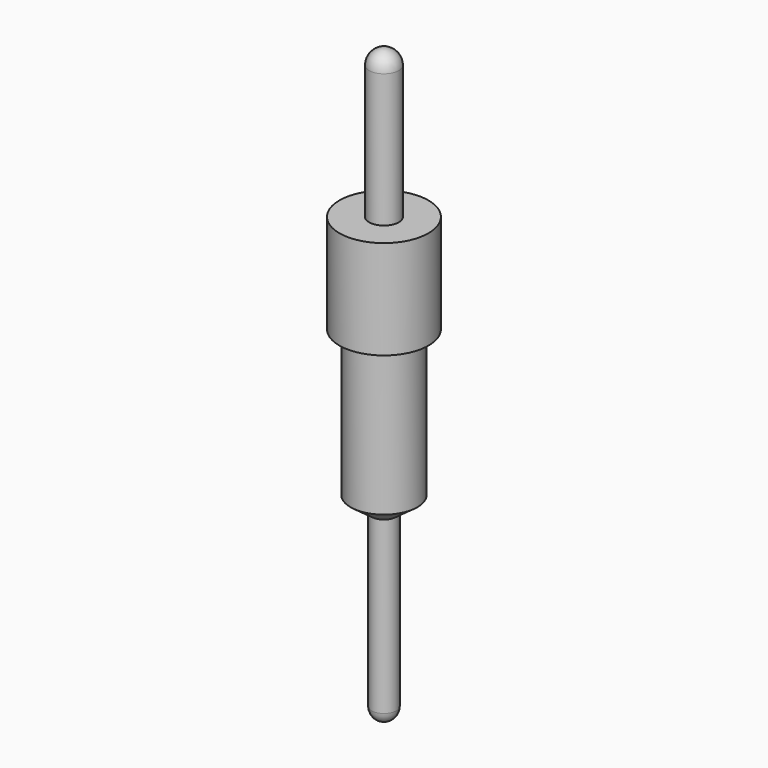
from build123d import *


with BuildPart() as part:
    # Sketch → Revolution (revolve)
    with BuildSketch(Plane.XZ):
        with BuildLine():
            Line((0, 8.26), (0, -3.7))
            ThreePointArc((-0.25, -3.45), (-0.176777, -3.626777), (0, -3.7))
            Line((-0.25, 0), (-0.25, -3.45))
            Line((-0.675, 0.31), (-0.25, 0))
            Line((-0.675, 3.26), (-0.675, 0.31))
            Line((-0.9, 3.26), (-0.675, 3.26))
            Line((-0.9, 5.26), (-0.9, 3.26))
            Line((-0.3, 5.26), (-0.9, 5.26))
            Line((-0.3, 7.96), (-0.3, 5.26))
            ThreePointArc((0, 8.26), (-0.212132, 8.172132), (-0.3, 7.96))
        make_face()
    revolve(axis=Axis((0, 0, 0), (0, 0, 1)))


solid = part.part
